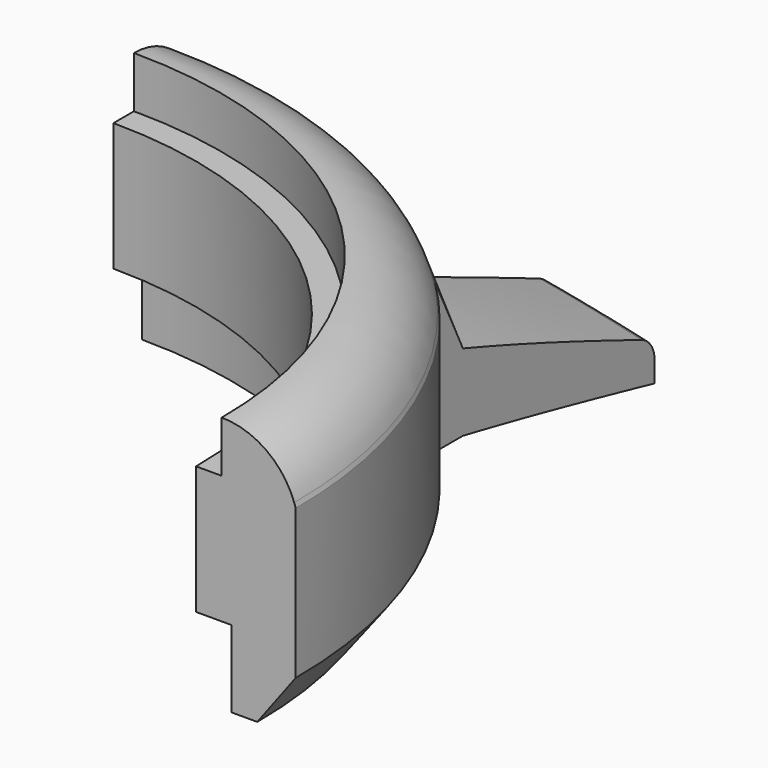
from build123d import *

# Parameters (mm, degrees)
REVOLUTION_ANGLE = 90
POCKET_DEPTH     = 10.001
FILLET_R         = 1


with BuildPart() as part:
    # Sketch001 → Revolution (revolve)
    with BuildSketch(Plane.XZ):
        with BuildLine():
            ThreePointArc((19.93934, 8), (18.842964, 9.44949), (17.110913, 10))
            Line((17.110913, 8), (17.110913, 10))
            Line((16.110913, 8), (17.110913, 8))
            Line((16.110913, 3), (16.110913, 8))
            Line((17.5, 3), (16.110913, 3))
            Line((17.5, 0), (17.5, 3))
            Line((18.5, 0), (17.5, 0))
            Line((20, 2), (18.5, 0))
            Line((20, 2), (21, 2))
            Line((21, 2), (28.65, 0))
            Line((28.65, 1.5), (28.65, 0))
            Line((21, 5), (28.65, 1.5))
            Line((19.93934, 8), (21, 5))
        make_face()
    revolve(axis=Axis((0, 0, 0), (0, 0, 1)), revolution_arc=REVOLUTION_ANGLE)

    # Sketch002 → Pocket (cut, through all)
    with BuildSketch(Plane.XY):
        with BuildLine():
            Line((10, 17.320508), (10, 25))
            Line((10, 25), (14, 25))
            Line((14, 25), (14, 14.282857))
            ThreePointArc((20, 0), (18.439089, 7.745967), (14, 14.282857))
            Line((37.402618, 0), (20, 0))
            Line((37.402618, 41.95618), (37.402618, 0))
            Line((0, 41.95618), (37.402618, 41.95618))
            Line((0, 20), (0, 41.95618))
            ThreePointArc((10, 17.320508), (5.176381, 19.318517), (0, 20))
        make_face()
    extrude(amount=POCKET_DEPTH, mode=Mode.SUBTRACT)

    # Fillet
    fillet_edges = [part.edges().sort_by_distance(p)[0] for p in [
        (12.001906, 25, 1.920149),
    ]]
    fillet(fillet_edges, radius=FILLET_R)


solid = part.part
